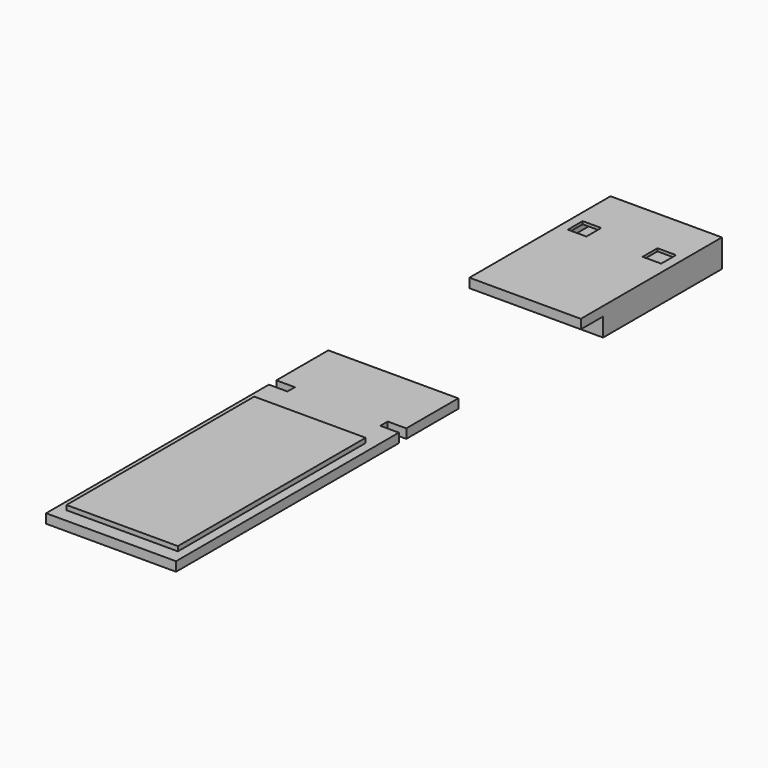
from build123d import *

# Parameters (mm, degrees)
F2_DEPTH  = 6
F4_DEPTH  = 1
F6_W      = 2
F6_H      = 2
F7_DEPTH  = 1
F9_W      = 11.6
F9_H      = 1.2
F10_DEPTH = 15
F12_W     = 12
F12_H     = 25.2746624606
F13_DEPTH = 0.5


with BuildPart() as f2:
    # F1 (on Right) → F2 (new body, symmetric)
    with BuildSketch(Plane.YZ):
        Polygon((9.5, -3), (9.5, 0), (-9.5, 0), (-9.5, -1), (-6.5, -1), (-6.5, -3), align=None)
    extrude(amount=F2_DEPTH, both=True)

    # F6 (on offset) → F7 (cut)
    with BuildSketch(Plane.XY):
        with Locations((-4, 3.5)):
            Rectangle(F6_W, F6_H)
        with Locations((4, 3.5710524619)):
            Rectangle(F6_W, F6_H)
    extrude(amount=-F7_DEPTH, mode=Mode.SUBTRACT)

    # F9 (on offset) → F10 (cut)
    with BuildSketch(Plane(origin=(0, 9.5, 0), x_dir=(-1, 0, 0), z_dir=(0, 1, 0))):
        with Locations((0, -0.9)):
            Rectangle(F9_W, F9_H)
    extrude(amount=-F10_DEPTH, mode=Mode.SUBTRACT)


with BuildPart() as f4:
    # F3 (on Top) → F4 (new body)
    with BuildSketch(Plane.XY):
        Polygon((7, -27.2508510042), (-7, -27.2508510042), (-7, -34.2508510042), (-5, -34.2508510042), (-5, -35.2508510042), (-7, -35.2508510042), (-7, -65.2508510042), (7, -65.2508510042), (7, -35.2508510042), (5, -35.2508510042), (5, -34.2508510042), (7, -34.2508510042), align=None)
    extrude(amount=-F4_DEPTH)

    # F12 (on offset) → F13 (join)
    with BuildSketch(Plane.XY):
        with Locations((0, -51.113519774)):
            Rectangle(F12_W, F12_H)
    extrude(amount=F13_DEPTH)


solid = Compound([f2.part, f4.part])
